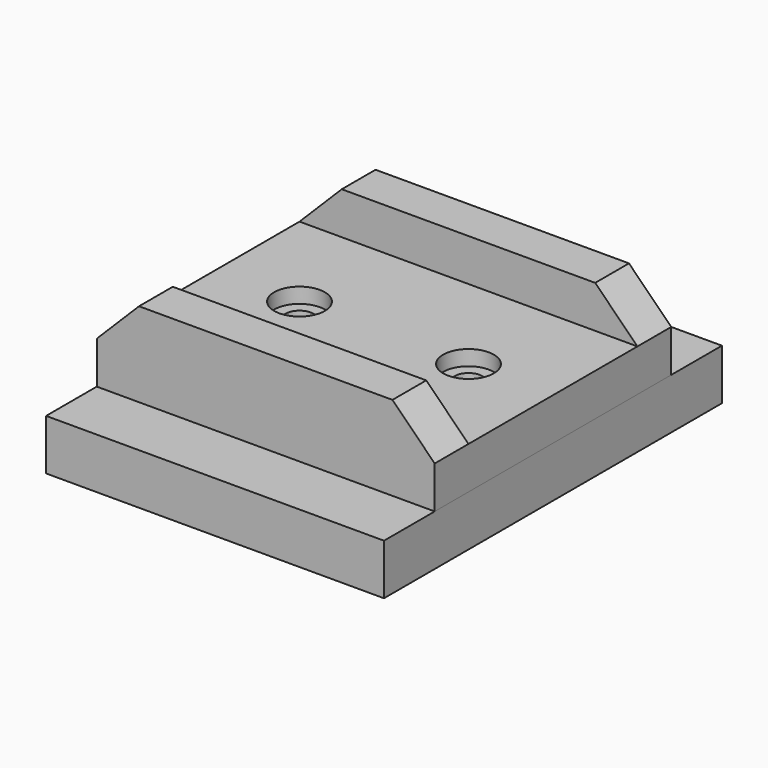
from build123d import *

# Parameters (mm, degrees)
SKETCH_W         = 40
SKETCH_H         = 50
SKETCH_R         = 1.6
PAD_DEPTH        = 6
POCKET_DEPTH     = 3
SKETCH002_W      = 40
SKETCH002_H      = 35
PAD001_DEPTH     = 5
SKETCH003_W      = 40
SKETCH003_H      = 5
PAD002_DEPTH     = 5
HOLE_D           = 3.3
HOLE_DEPTH       = 25
HOLE_CBORE_D     = 6
HOLE_CBORE_DEPTH = 1.8
POCKET001_DEPTH  = 35.001


with BuildPart() as body:
    # Sketch → Pad (new body)
    with BuildSketch(Plane.XY):
        Rectangle(SKETCH_W, SKETCH_H)
        with Locations((-10, 0)):
            Circle(SKETCH_R, mode=Mode.SUBTRACT)
        with Locations((10, 0)):
            Circle(SKETCH_R, mode=Mode.SUBTRACT)
    extrude(amount=PAD_DEPTH)

    # Sketch001 (on Face7 of Pad) → Pocket (cut)
    with BuildSketch(Plane(origin=(0, 0, 0), x_dir=(1, 0, 0), z_dir=(0, 0, -1))):
        Polygon((-8.412287, -2.75), (-6.824574, 0), (-8.412287, 2.75), (-11.587713, 2.75), (-13.175426, 0), (-11.587713, -2.75), align=None)
        Polygon((11.587713, -2.75), (13.175426, 0), (11.587713, 2.75), (8.412287, 2.75), (6.824574, 0), (8.412287, -2.75), align=None)
    extrude(amount=-POCKET_DEPTH, mode=Mode.SUBTRACT)


with BuildPart() as body001:
    # Sketch002 (on Face1 of CopyPocket) → Pad001 (new body)
    with BuildSketch(Plane.XY.offset(6)):
        Rectangle(SKETCH002_W, SKETCH002_H)
    extrude(amount=PAD001_DEPTH)

    # Sketch003 (on Face6 of Pad001) → Pad002 (join)
    with BuildSketch(Plane.XY.offset(11)):
        with Locations((0, 15)):
            Rectangle(SKETCH003_W, SKETCH003_H)
        with Locations((0, -15)):
            Rectangle(SKETCH003_W, SKETCH003_H)
    extrude(amount=PAD002_DEPTH)

    # Hole
    with Locations(Plane.XY.offset(11)):
        with Locations((-10, 0), (10, 0)):
            CounterBoreHole(HOLE_D / 2, HOLE_CBORE_D / 2, HOLE_CBORE_DEPTH, depth=HOLE_DEPTH)

    # Sketch005 (on Face8 of Hole) → Pocket001 (cut, through all)
    with BuildSketch(Plane(origin=(0, -17.5, 6), x_dir=(1, 0, 0), z_dir=(0, -1, 0))):
        Polygon((-20, 14.556483), (20, 14.556483), (20, 5), (15, 10), (-15, 10), (-20, 5), align=None)
    extrude(amount=-POCKET001_DEPTH, mode=Mode.SUBTRACT)


solid = Compound([body.part, body001.part])
